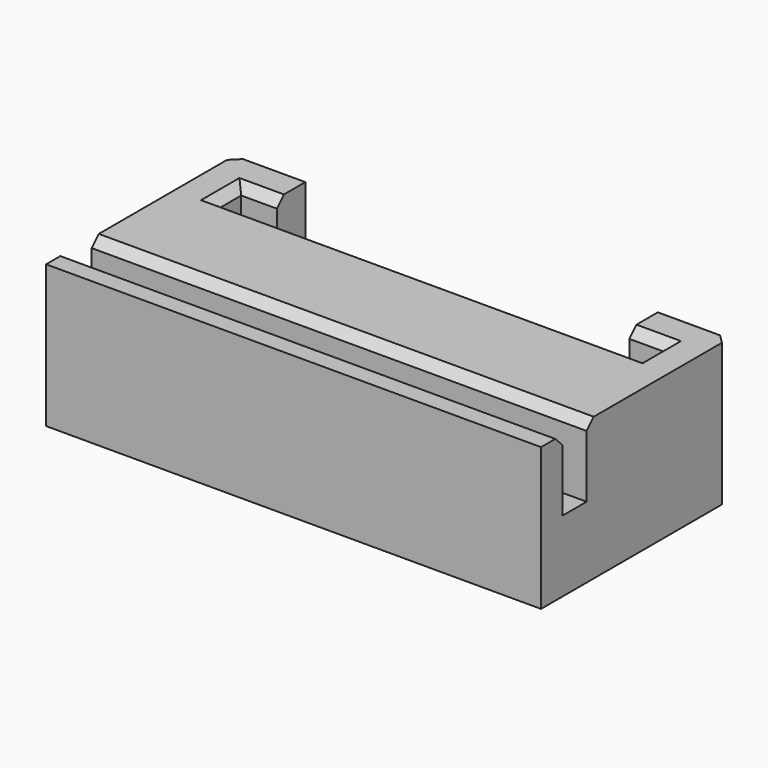
from build123d import *

# Parameters (mm, degrees)
PAD_DEPTH    = 8
SKETCH001_W  = 27.8
SKETCH001_H  = 1.7
POCKET_DEPTH = 4
CHAMFER_SIZE = 0.5


with BuildPart() as part:
    # Sketch → Pad (new body)
    with BuildSketch(Plane.XY):
        Polygon((-13.9, 0), (-13.9, 13.2), (-9.9, 13.2), (-9.9, 11.2), (-11.9, 11.2), (-11.9, 9.5), (11.9, 9.5), (11.9, 11.2), (9.9, 11.2), (9.9, 13.2), (13.9, 13.2), (13.9, 0), align=None)
    extrude(amount=PAD_DEPTH)

    # Sketch001 → Pocket (cut)
    with BuildSketch(Plane.XY.offset(8)):
        with Locations((0, 2.35)):
            Rectangle(SKETCH001_W, SKETCH001_H)
    extrude(amount=-POCKET_DEPTH, mode=Mode.SUBTRACT)

    # Chamfer
    chamfer_edges = [part.edges().sort_by_distance(p)[0] for p in [
        (0, 1.5, 8),
        (0, 3.2, 8),
        (0, 9.5, 8),
        (-11.9, 10.35, 8),
        (-10.9, 11.2, 8),
        (11.9, 10.35, 8),
        (10.9, 11.2, 8),
        (-13.9, 13.2, 4),
        (13.9, 13.2, 4),
    ]]
    chamfer(chamfer_edges, length=CHAMFER_SIZE)


solid = part.part
